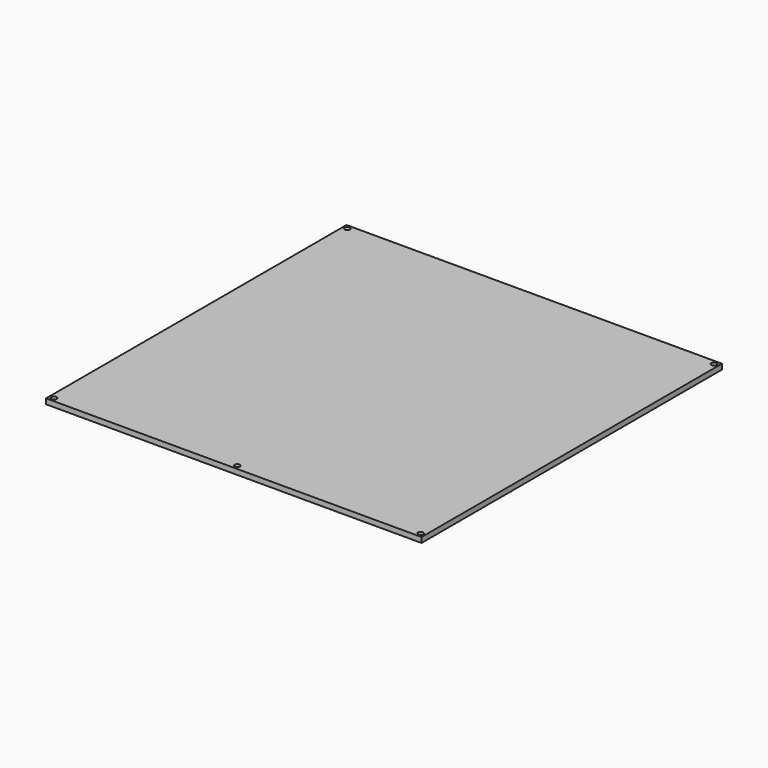
from build123d import *

# Parameters (mm, degrees)
F0_W     = 214
F0_H     = 214
F0_R     = 1.5
F1_DEPTH = 3


with BuildPart() as f1:
    # F0 (on Top) → F1 (new body)
    with BuildSketch(Plane.XY):
        Rectangle(F0_W, F0_H)
        with Locations((-104.5, -104.5)):
            Circle(F0_R, mode=Mode.SUBTRACT)
        with Locations((0, -104.5)):
            Circle(F0_R, mode=Mode.SUBTRACT)
        with Locations((104.5, -104.5)):
            Circle(F0_R, mode=Mode.SUBTRACT)
        with Locations((-104.5, 104.5)):
            Circle(F0_R, mode=Mode.SUBTRACT)
        with Locations((104.5, 104.5)):
            Circle(F0_R, mode=Mode.SUBTRACT)
    extrude(amount=F1_DEPTH)


solid = f1.part
